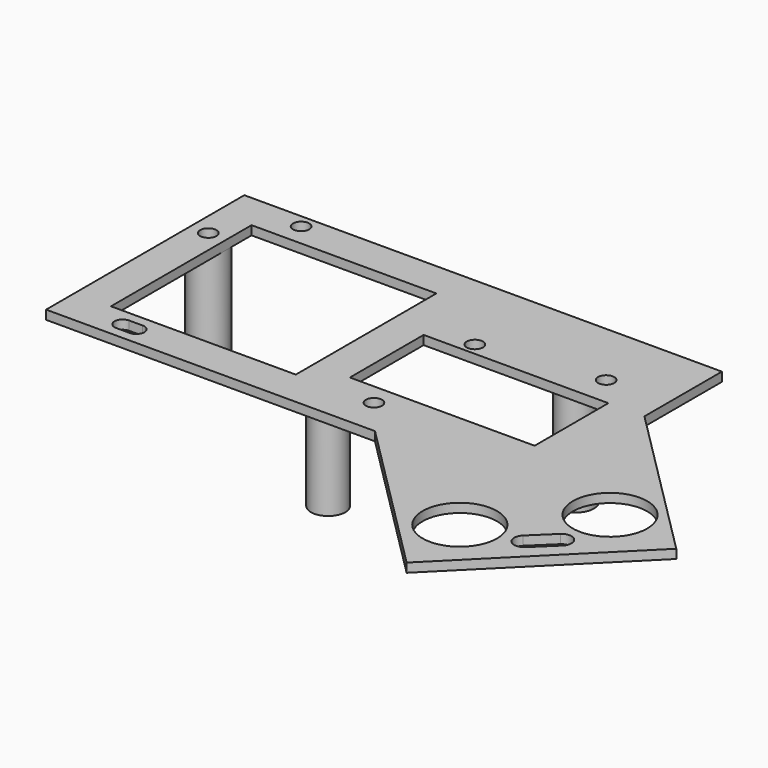
from build123d import *

# Parameters (mm, degrees)
SKETCH_R        = 1.8
SKETCH_W        = 41.028241
SKETCH_H        = 39
SKETCH_W_2      = 41
SKETCH_H_2      = 20.463
PAD_DEPTH       = 2
SKETCH001_R     = 3.8
SKETCH001_R_2   = 4
SKETCH001_R_3   = 1.8
PAD001_DEPTH    = 24
SKETCH002_R     = 8.25
POCKET_DEPTH    = 5
SKETCH003_R     = 1.8
POCKET001_DEPTH = 5


with BuildPart() as part:
    # Sketch → Pad (new body)
    with BuildSketch(Plane.XY):
        Polygon((-53, 15), (53, 15), (53, -6.5), (88.355343, -41.855343), (55.105343, -75.105343), (20, -40), (-53, -40), align=None)
        with Locations((-49, 0)):
            Circle(SKETCH_R, mode=Mode.SUBTRACT)
        with Locations((39.3, 0)):
            Circle(SKETCH_R, mode=Mode.SUBTRACT)
        with Locations((13.2, -31.8)):
            Circle(SKETCH_R, mode=Mode.SUBTRACT)
        with Locations((13.2, -3.8)):
            Circle(SKETCH_R, mode=Mode.SUBTRACT)
        with Locations((-24.485879, -12.5)):
            Rectangle(SKETCH_W, SKETCH_H, mode=Mode.SUBTRACT)
        with Locations((24.528241, -16.768476)):
            Rectangle(SKETCH_W_2, SKETCH_H_2, mode=Mode.SUBTRACT)
        with BuildLine():
            ThreePointArc((-39.199998, -34.2), (-41, -36), (-39.199998, -37.8))
            Line((-39.199998, -37.8), (-36.200009, -37.8))
            ThreePointArc((-36.200009, -37.8), (-34.4, -36.000004), (-36.2, -34.2))
            Line((-39.199998, -34.2), (-36.2, -34.2))
        make_face(mode=Mode.SUBTRACT)
    extrude(amount=PAD_DEPTH)

    # Sketch001 → Pad001 (new body)
    with BuildSketch(Plane(origin=(0, 0, 0), x_dir=(1, 0, 0), z_dir=(0, 0, -1))):
        with Locations((0, 28)):
            Circle(SKETCH001_R)
        with Locations((-49, 0)):
            Circle(SKETCH001_R_2)
        with Locations((-49, 0)):
            Circle(SKETCH001_R_3, mode=Mode.SUBTRACT)
        with Locations((32.6, 0)):
            Circle(SKETCH001_R_2)
        with Locations((32.6, 0)):
            Circle(SKETCH001_R_3, mode=Mode.SUBTRACT)
    extrude(amount=PAD001_DEPTH)

    # Sketch002 → Pocket (cut)
    with BuildSketch(Plane.XY.offset(2)):
        with Locations((53.4328, -58.256155)):
            Circle(SKETCH002_R)
        with Locations((71.433789, -39.081839)):
            Circle(SKETCH002_R)
        with BuildLine():
            ThreePointArc((64.504552, -54.573607), (64.450253, -57.684403), (67.561049, -57.738702))
            Line((67.561049, -57.738702), (72.236758, -53.223423))
            ThreePointArc((72.236758, -53.223423), (72.291056, -50.112627), (69.18026, -50.058329))
            Line((64.504552, -54.573607), (69.18026, -50.058329))
        make_face()
    extrude(amount=-POCKET_DEPTH, mode=Mode.SUBTRACT)

    # Sketch003 → Pocket001 (cut)
    with BuildSketch(Plane.XY.offset(2)):
        with Locations((-38, 12)):
            Circle(SKETCH003_R)
    extrude(amount=-POCKET001_DEPTH, mode=Mode.SUBTRACT)


solid = part.part
